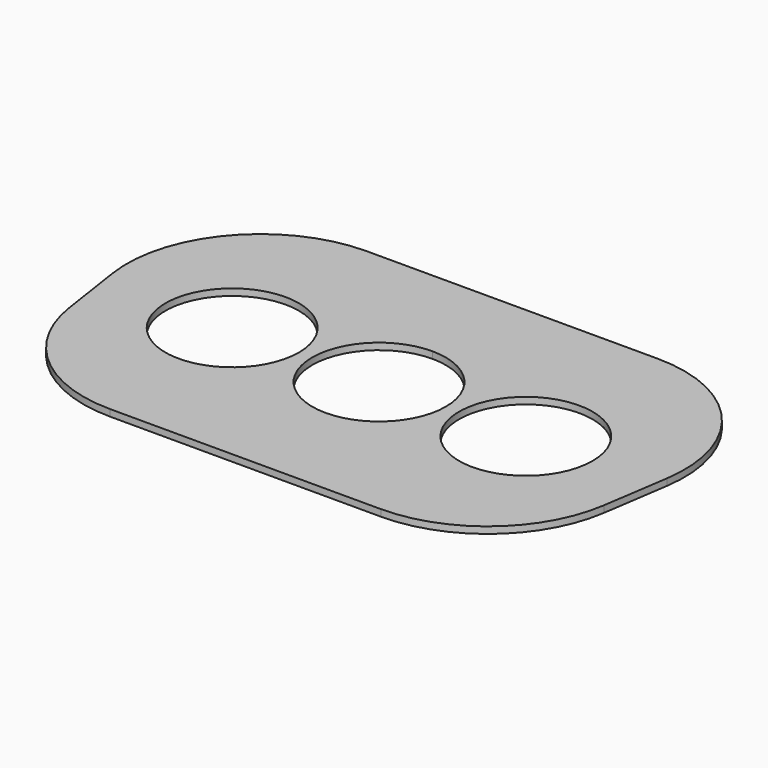
from build123d import *

# Parameters (mm, degrees)
F0_R     = 10
F1_DEPTH = 1
F2_R     = 20


with BuildPart() as f1:
    # F0 (on Top) → F1 (new body)
    with BuildSketch(Plane.XY):
        with BuildLine():
            Line((0, 0), (-45, 0))
            Line((-45, 0), (-37.5, -50))
            Line((-37.5, -50), (0, -50))
            Line((0, -50), (0, -35))
            ThreePointArc((0, -35), (-10, -25), (0, -15))
            Line((0, -15), (0, 0))
        make_face()
        with Locations((-22, -25)):
            Circle(F0_R, mode=Mode.SUBTRACT)
        with BuildLine():
            Line((45, 0), (0, 0))
            Line((0, 0), (0, -15))
            ThreePointArc((0, -15), (7.071068, -17.928932), (10, -25))
            ThreePointArc((10, -25), (7.071068, -32.071068), (0, -35))
            Line((0, -35), (0, -50))
            Line((0, -50), (37.5, -50))
            Line((37.5, -50), (45, 0))
        make_face()
        with Locations((22, -25)):
            Circle(F0_R, mode=Mode.SUBTRACT)
    extrude(amount=F1_DEPTH)

    # F2
    f2_edges = [f1.edges().sort_by_distance(p)[0] for p in [
        (-37.5, -50, 0.5),
        (37.5, -50, 0.5),
        (45, 0, 0.5),
        (-45, 0, 0.5),
    ]]
    fillet(f2_edges, radius=F2_R)


solid = f1.part
